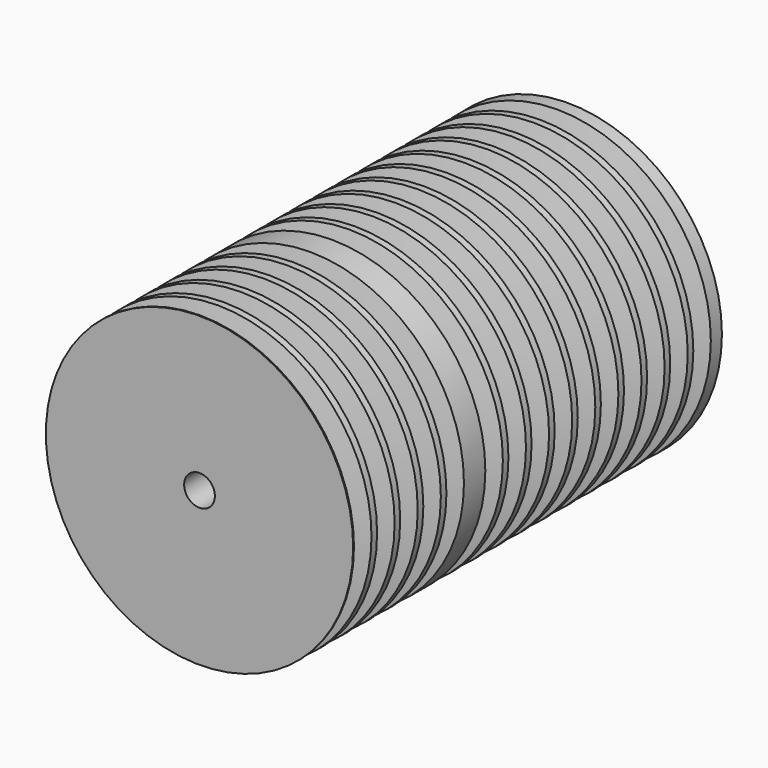
from build123d import *

# Parameters (mm, degrees)
F0_R        = 63.5
F0_R_2      = 6.35
F1_DEPTH    = 127
F1_FACE_R   = 63.5
F1_FACE_R_2 = 6.35
F4_DEPTH    = 63.5


with BuildPart() as f1:
    # F0 (on Front) → F1 (new body)
    with BuildSketch(Plane.XZ):
        Circle(F0_R)
        Circle(F0_R_2, mode=Mode.SUBTRACT)
    extrude(amount=F1_DEPTH)

    # F2 (on Right) → F3 (revolve, cut)
    with BuildSketch(Plane.YZ):
        Polygon((-10.730011, 43.902457), (-5.359275, 64.943254), (-11.938, 64.943254), (-15.07775, 64.943254), align=None)
        Polygon((-22.668011, 43.902457), (-17.297275, 64.943254), (-23.876, 64.943254), (-27.01575, 64.943254), align=None)
        Polygon((-34.606011, 43.902457), (-29.235275, 64.943254), (-35.814, 64.943254), (-38.95375, 64.943254), align=None)
        Polygon((-46.544011, 43.902457), (-41.173275, 64.943254), (-47.752, 64.943254), (-50.89175, 64.943254), align=None)
        Polygon((-58.482011, 43.902457), (-53.111275, 64.943254), (-59.69, 64.943254), (-62.82975, 64.943254), align=None)
        Polygon((-70.420011, 43.902457), (-65.049275, 64.943254), (-71.628, 64.943254), (-74.76775, 64.943254), align=None)
        Polygon((-82.358011, 43.902457), (-76.987275, 64.943254), (-83.566, 64.943254), (-86.70575, 64.943254), align=None)
        Polygon((-94.296011, 43.902457), (-88.925275, 64.943254), (-95.504, 64.943254), (-98.64375, 64.943254), align=None)
        Polygon((-106.234011, 43.902457), (-100.863275, 64.943254), (-107.442, 64.943254), (-110.58175, 64.943254), align=None)
        Polygon((-118.172011, 43.902457), (-112.801275, 64.943254), (-122.51975, 64.943254), align=None)
        Polygon((-137.317755, 43.902457), (-132.970016, 64.943254), (-139.682883, 64.943254), (-142.688491, 64.943254), align=None)
        Polygon((-149.255755, 43.902457), (-144.908016, 64.943254), (-151.620883, 64.943254), (-154.626491, 64.943254), align=None)
        Polygon((-161.193755, 43.902457), (-156.846016, 64.943254), (-163.558883, 64.943254), (-166.564491, 64.943254), align=None)
        Polygon((-173.131755, 43.902457), (-168.784016, 64.943254), (-175.496883, 64.943254), (-178.502491, 64.943254), align=None)
        Polygon((-185.069755, 43.902457), (-180.722016, 64.943254), (-187.434883, 64.943254), (-190.440491, 64.943254), align=None)
        Polygon((-197.007755, 43.902457), (-192.660016, 64.943254), (-199.372883, 64.943254), (-202.378491, 64.943254), align=None)
    revolve(axis=Axis((0, -127, 0), (0, -1, 0)), mode=Mode.SUBTRACT)

    # F1_face (on face) → F4 (join)
    with BuildSketch(Plane.XZ.offset(127)):
        Circle(F1_FACE_R)
        Circle(F1_FACE_R_2, mode=Mode.SUBTRACT)
    extrude(amount=F4_DEPTH)

    # F2 (on Right) → F5 (revolve, cut)
    with BuildSketch(Plane.YZ):
        Polygon((-137.317755, 43.902457), (-132.970016, 64.943254), (-139.682883, 64.943254), (-142.688491, 64.943254), align=None)
        Polygon((-10.730011, 43.902457), (-5.359275, 64.943254), (-11.938, 64.943254), (-15.07775, 64.943254), align=None)
        Polygon((-220.883755, 43.902457), (-216.536016, 64.943254), (-223.248883, 64.943254), (-226.254491, 64.943254), align=None)
        Polygon((-208.945755, 43.902457), (-204.598016, 64.943254), (-211.310883, 64.943254), (-214.316491, 64.943254), align=None)
        Polygon((-197.007755, 43.902457), (-192.660016, 64.943254), (-199.372883, 64.943254), (-202.378491, 64.943254), align=None)
        Polygon((-185.069755, 43.902457), (-180.722016, 64.943254), (-187.434883, 64.943254), (-190.440491, 64.943254), align=None)
        Polygon((-173.131755, 43.902457), (-168.784016, 64.943254), (-175.496883, 64.943254), (-178.502491, 64.943254), align=None)
        Polygon((-161.193755, 43.902457), (-156.846016, 64.943254), (-163.558883, 64.943254), (-166.564491, 64.943254), align=None)
        Polygon((-149.255755, 43.902457), (-144.908016, 64.943254), (-151.620883, 64.943254), (-154.626491, 64.943254), align=None)
        Polygon((-137.317755, 43.902457), (-132.970016, 64.943254), (-139.682883, 64.943254), (-142.688491, 64.943254), align=None)
        Polygon((-118.172011, 43.902457), (-112.801275, 64.943254), (-122.51975, 64.943254), align=None)
        Polygon((-106.234011, 43.902457), (-100.863275, 64.943254), (-107.442, 64.943254), (-110.58175, 64.943254), align=None)
        Polygon((-94.296011, 43.902457), (-88.925275, 64.943254), (-95.504, 64.943254), (-98.64375, 64.943254), align=None)
        Polygon((-82.358011, 43.902457), (-76.987275, 64.943254), (-83.566, 64.943254), (-86.70575, 64.943254), align=None)
        Polygon((-70.420011, 43.902457), (-65.049275, 64.943254), (-71.628, 64.943254), (-74.76775, 64.943254), align=None)
        Polygon((-58.482011, 43.902457), (-53.111275, 64.943254), (-59.69, 64.943254), (-62.82975, 64.943254), align=None)
        Polygon((-46.544011, 43.902457), (-41.173275, 64.943254), (-47.752, 64.943254), (-50.89175, 64.943254), align=None)
        Polygon((-34.606011, 43.902457), (-29.235275, 64.943254), (-35.814, 64.943254), (-38.95375, 64.943254), align=None)
        Polygon((-22.668011, 43.902457), (-17.297275, 64.943254), (-23.876, 64.943254), (-27.01575, 64.943254), align=None)
    revolve(axis=Axis((0, -62.531525, 0), (0, 1, 0)), mode=Mode.SUBTRACT)


solid = f1.part
